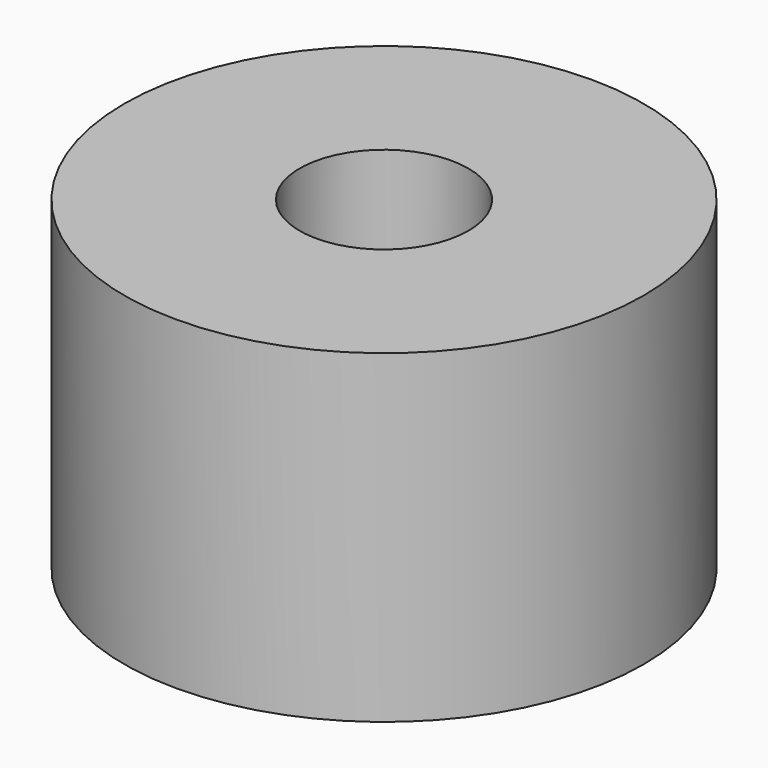
from build123d import *

# Parameters (mm, degrees)
CYLINDER985_R     = 1
CYLINDER985_DEPTH = 20
CYLINDER982_R     = 1
CYLINDER982_DEPTH = 20
CYLINDER983_R     = 1
CYLINDER983_DEPTH = 20
CYLINDER984_R     = 1
CYLINDER984_DEPTH = 20
TUBE080_R         = 8
TUBE080_R_2       = 2.6
TUBE080_DEPTH     = 10


with BuildPart() as obj1:
    # Cylinder985 → Cylinder985 (new body)
    with BuildSketch(Plane(origin=(4.25, -4.25, -88), x_dir=(0, 1, 0), z_dir=(0, 0, 1))):
        Circle(CYLINDER985_R)
    extrude(amount=CYLINDER985_DEPTH)


with BuildPart() as obj2:
    # Cylinder982 → Cylinder982 (new body)
    with BuildSketch(Plane(origin=(4.25, 4.25, -88), x_dir=(-1, 0, 0), z_dir=(0, 0, 1))):
        Circle(CYLINDER982_R)
    extrude(amount=CYLINDER982_DEPTH)


with BuildPart() as obj3:
    # Cylinder983 → Cylinder983 (new body)
    with BuildSketch(Plane(origin=(-4.25, 4.25, -88), x_dir=(0, -1, 0), z_dir=(0, 0, 1))):
        Circle(CYLINDER983_R)
    extrude(amount=CYLINDER983_DEPTH)


with BuildPart() as compound810:
    # Cylinder984 → Cylinder984 (new body)
    with BuildSketch(Plane(origin=(-4.25, -4.25, -88), x_dir=(1, 0, 0), z_dir=(0, 0, 1))):
        Circle(CYLINDER984_R)
    extrude(amount=CYLINDER984_DEPTH)

    # Compound810: union obj1, obj2, obj3
    add(obj1.part)
    add(obj2.part)
    add(obj3.part)


with BuildPart() as compound810_1:
    # Compound810 placement: moved
    add(compound810.part.moved(Location((0, 0, 91))))


with BuildPart() as cut091:
    # Tube080 → Tube080 (new body)
    with BuildSketch(Plane.XY.offset(19)):
        Circle(TUBE080_R)
        Circle(TUBE080_R_2, mode=Mode.SUBTRACT)
    extrude(amount=TUBE080_DEPTH)

    # Cut091: cut Compound810
    add(compound810_1.part, mode=Mode.SUBTRACT)


solid = cut091.part
